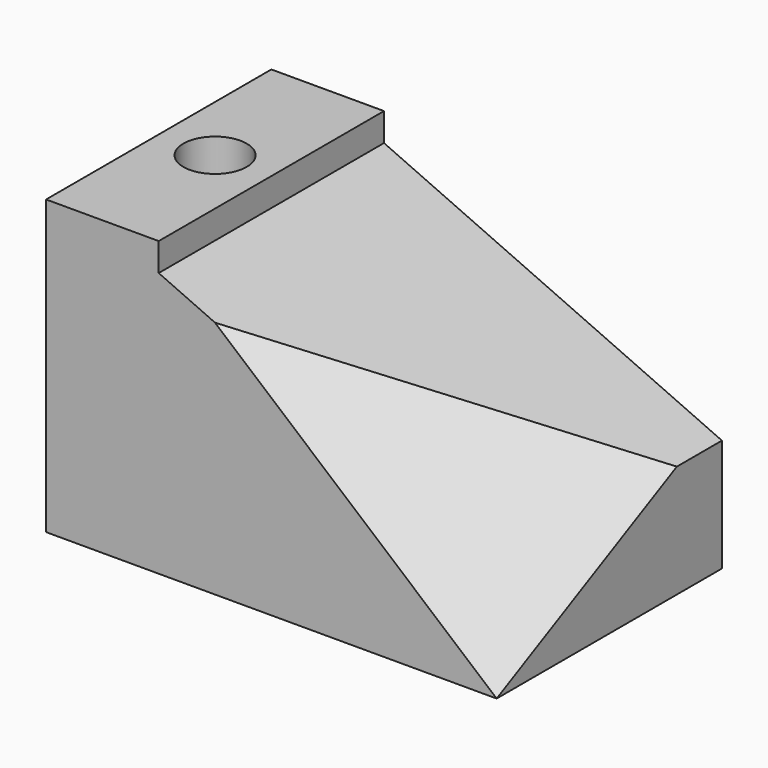
from build123d import *

# Parameters (mm, degrees)
F1_DEPTH = 31.75
F2_R     = 7.1374
F3_DEPTH = 38.1
F8_DEPTH = 47.0227251518


with BuildPart() as f1:
    # F0 (on Front) → F1 (new body, symmetric)
    with BuildSketch(Plane.XZ):
        Polygon((0, 66.04), (0, 0), (101.6, 0), (101.6, 25.4), (25.4, 59.69), (25.4, 66.04), align=None)
    extrude(amount=F1_DEPTH, both=True)

    # F2 (on face) → F3 (cut)
    with BuildSketch(Plane.XY.offset(66.04)):
        with Locations((12.7, 0)):
            Circle(F2_R)
    extrude(amount=-F3_DEPTH, mode=Mode.SUBTRACT)

    # F7 (on 3pt) → F8 (cut, through all)
    with BuildSketch(Plane(origin=(44.0556400507, -25.9150823828, 51.8301647655), x_dir=(0.79606128, 0.2706608352, -0.5413216704), z_dir=(0.6052160263, -0.3560094273, 0.7120188545))):
        Polygon((72.2863445278, -28.3980633142), (72.2863445278, 28.3980633142), (-7.4813839092, -4.2597094971), align=None)
    extrude(amount=F8_DEPTH, mode=Mode.SUBTRACT)


solid = f1.part
